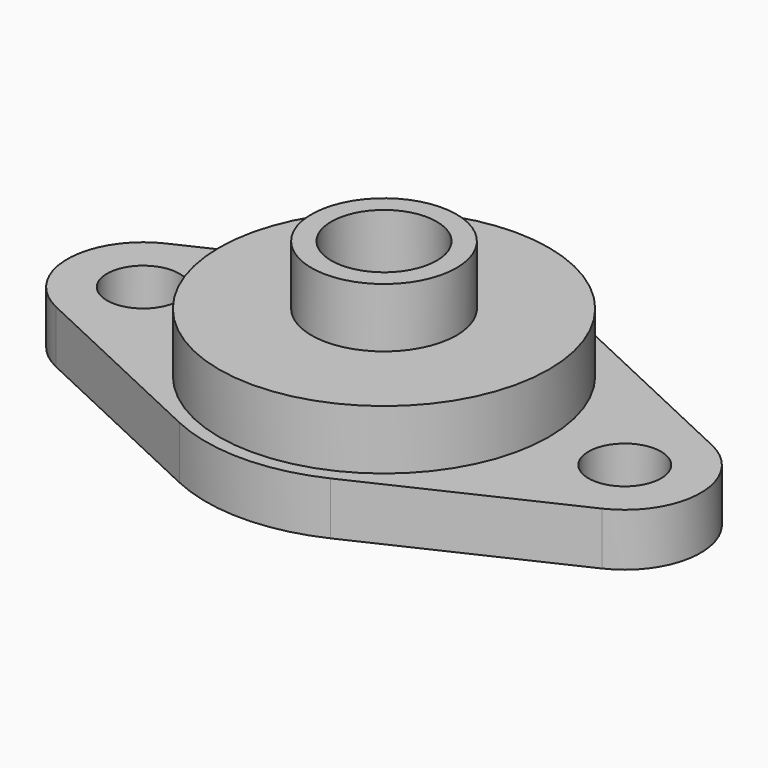
from build123d import *

# Parameters (mm, degrees)
F0_R     = 2.75
F1_DEPTH = 4
F2_R     = 12.5
F3_DEPTH = 4.5
F4_R     = 5.5
F4_R_2   = 4
F5_DEPTH = 13


with BuildPart() as f1:
    # F0 (on Top) → F1 (new body)
    with BuildSketch(Plane.XY):
        with BuildLine():
            Line((-20.691781, -5.205786), (-5.732877, -12.22228))
            ThreePointArc((-5.732877, -12.22228), (0, -13.5), (5.732877, -12.22228))
            Line((5.732877, -12.22228), (20.691781, -5.205786))
            ThreePointArc((20.691781, -5.205786), (24, 0), (20.691781, 5.205786))
            Line((20.691781, 5.205786), (5.732877, 12.22228))
            ThreePointArc((5.732877, 12.22228), (0, 13.5), (-5.732877, 12.22228))
            Line((-5.732877, 12.22228), (-20.691781, 5.205786))
            ThreePointArc((-20.691781, 5.205786), (-24, 0), (-20.691781, -5.205786))
        make_face()
        with Locations((-18.25, 0)):
            Circle(F0_R, mode=Mode.SUBTRACT)
        with Locations((18.25, 0)):
            Circle(F0_R, mode=Mode.SUBTRACT)
    extrude(amount=F1_DEPTH)

    # F2 (on face) → F3 (join)
    with BuildSketch(Plane.XY.offset(4)):
        Circle(F2_R)
    extrude(amount=F3_DEPTH)

    # F4 (on face) → F5 (join)
    with BuildSketch(Plane(origin=(0, 0, 0), x_dir=(1, 0, 0), z_dir=(0, 0, -1))):
        Circle(F4_R)
        Circle(F4_R_2, mode=Mode.SUBTRACT)
    extrude(amount=-F5_DEPTH)


solid = f1.part
